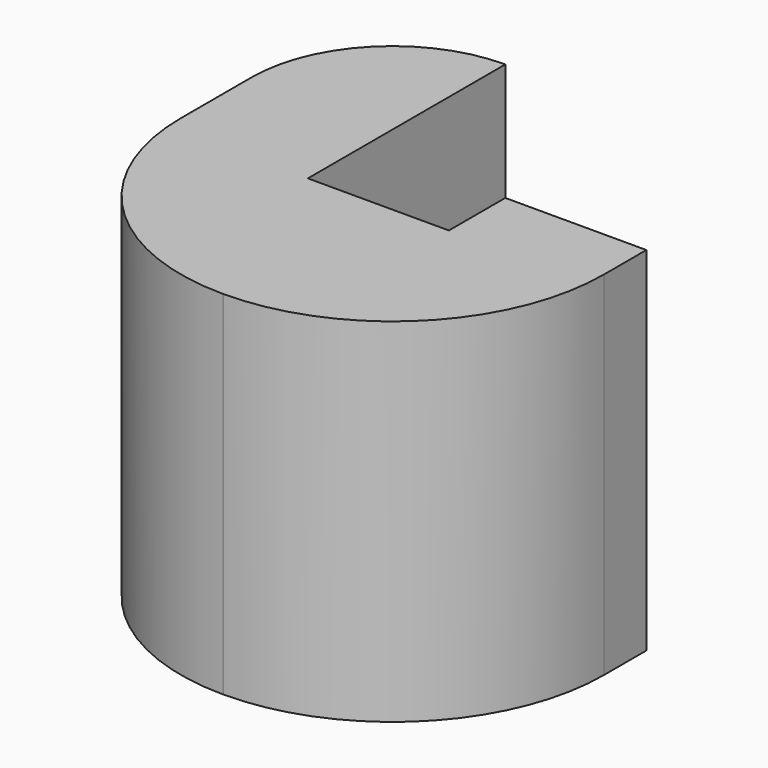
from build123d import *

# Parameters (mm, degrees)
PAD_DEPTH   = 20
FILLET_R    = 12
FILLET001_R = 11.99
FILLET002_R = 7.99


with BuildPart() as part:
    # Sketch → Pad (new body)
    with BuildSketch(Plane.XY):
        Polygon((-12, 10), (-4, 10), (-4, -4), (4, -4), (4, 0), (12, 0), (12, -15), (-12, -15), align=None)
    extrude(amount=PAD_DEPTH)

    # Fillet
    fillet_edges = [part.edges().sort_by_distance(p)[0] for p in [
        (-12, -15, 10),
    ]]
    fillet(fillet_edges, radius=FILLET_R)

    # Fillet001
    fillet001_edges = [part.edges().sort_by_distance(p)[0] for p in [
        (12, -15, 10),
    ]]
    fillet(fillet001_edges, radius=FILLET001_R)

    # Fillet002
    fillet002_edges = [part.edges().sort_by_distance(p)[0] for p in [
        (-12, 10, 10),
    ]]
    fillet(fillet002_edges, radius=FILLET002_R)


solid = part.part
